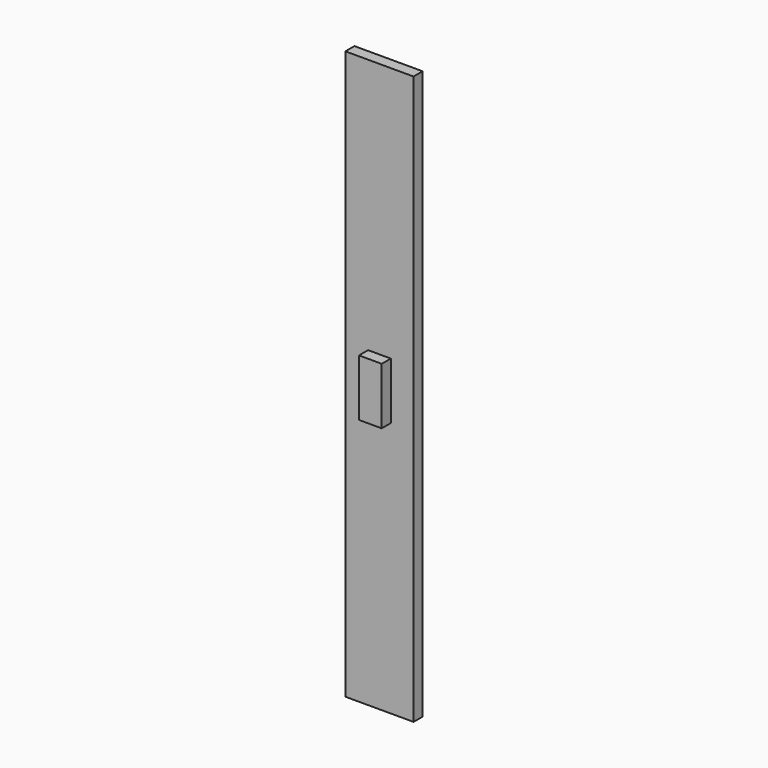
from build123d import *

# Parameters (mm, degrees)
F0_W     = 152.4
F0_H     = 1270
F1_DEPTH = 25.4
F2_W     = 50.8
F2_H     = 127
F3_DEPTH = 50.8


with BuildPart() as f1:
    # F0 (on Front) → F1 (new body)
    with BuildSketch(Plane.XZ):
        Rectangle(F0_W, F0_H)
    extrude(amount=F1_DEPTH)


with BuildPart() as f3:
    # F2 (on Front) → F3 (new body)
    with BuildSketch(Plane.XZ):
        Rectangle(F2_W, F2_H)
    extrude(amount=F3_DEPTH)


solid = Compound([f1.part, f3.part])
